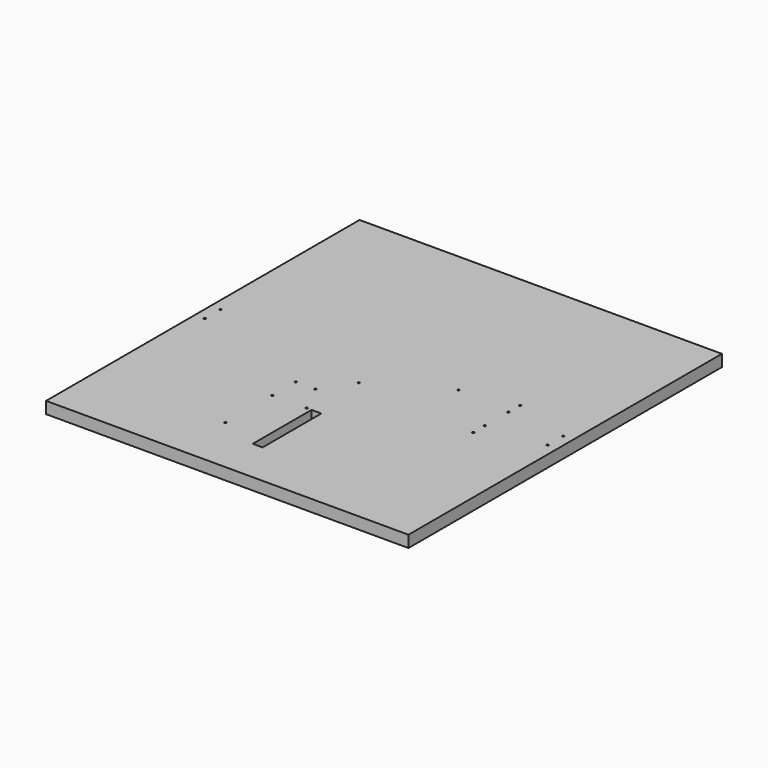
from build123d import *

# Parameters (mm, degrees)
F0_W      = 370
F0_H      = 400
F1_DEPTH  = 12
F2_W      = 10
F2_H      = 75
F3_DEPTH  = 25
F4_R      = 1
F5_DEPTH  = 5
F6_R      = 1
F7_DEPTH  = 25
F8_R      = 1
F9_DEPTH  = 25
F10_R     = 1
F11_DEPTH = 5
F12_R     = 1
F13_DEPTH = 5
F14_R     = 1
F15_DEPTH = 5


with BuildPart() as f1:
    # F0 (on Top) → F1 (new body)
    with BuildSketch(Plane.XY):
        Rectangle(F0_W, F0_H)
    extrude(amount=F1_DEPTH)

    # F2 (on face) → F3 (cut)
    with BuildSketch(Plane.XY.offset(12)):
        with Locations((-5, -117.5)):
            Rectangle(F2_W, F2_H)
    extrude(amount=-F3_DEPTH, mode=Mode.SUBTRACT)

    # F4 (on face) → F5 (cut)
    with BuildSketch(Plane.XY.offset(12)):
        with Locations((-50, -80)):
            Circle(F4_R)
        with Locations((-15, -80)):
            Circle(F4_R)
        with Locations((-50, -140)):
            Circle(F4_R)
        with Locations((-30, -50)):
            Circle(F4_R)
        with Locations((-50, -50)):
            Circle(F4_R)
    extrude(amount=-F5_DEPTH, mode=Mode.SUBTRACT)

    # F6 (on face) → F7 (cut)
    with BuildSketch(Plane.XY.offset(12)):
        with Locations((-175, -10)):
            Circle(F6_R)
        with Locations((-175, 10)):
            Circle(F6_R)
    extrude(amount=-F7_DEPTH, mode=Mode.SUBTRACT)

    # F8 (on face) → F9 (cut)
    with BuildSketch(Plane.XY.offset(12)):
        with Locations((175, 10)):
            Circle(F8_R)
        with Locations((175, -10)):
            Circle(F8_R)
    extrude(amount=-F9_DEPTH, mode=Mode.SUBTRACT)

    # F10 (on face) → F11 (cut)
    with BuildSketch(Plane.XY.offset(12)):
        with Locations((60, 20)):
            Circle(F10_R)
        with Locations((-10, -20)):
            Circle(F10_R)
    extrude(amount=-F11_DEPTH, mode=Mode.SUBTRACT)

    # F12 (on face) → F13 (cut)
    with BuildSketch(Plane.XY.offset(12)):
        with Locations((115, -15)):
            Circle(F12_R)
        with Locations((115, -30)):
            Circle(F12_R)
    extrude(amount=-F13_DEPTH, mode=Mode.SUBTRACT)

    # F14 (on face) → F15 (cut)
    with BuildSketch(Plane.XY.offset(12)):
        with Locations((115, 30)):
            Circle(F14_R)
        with Locations((115, 15)):
            Circle(F14_R)
    extrude(amount=-F15_DEPTH, mode=Mode.SUBTRACT)


solid = f1.part
